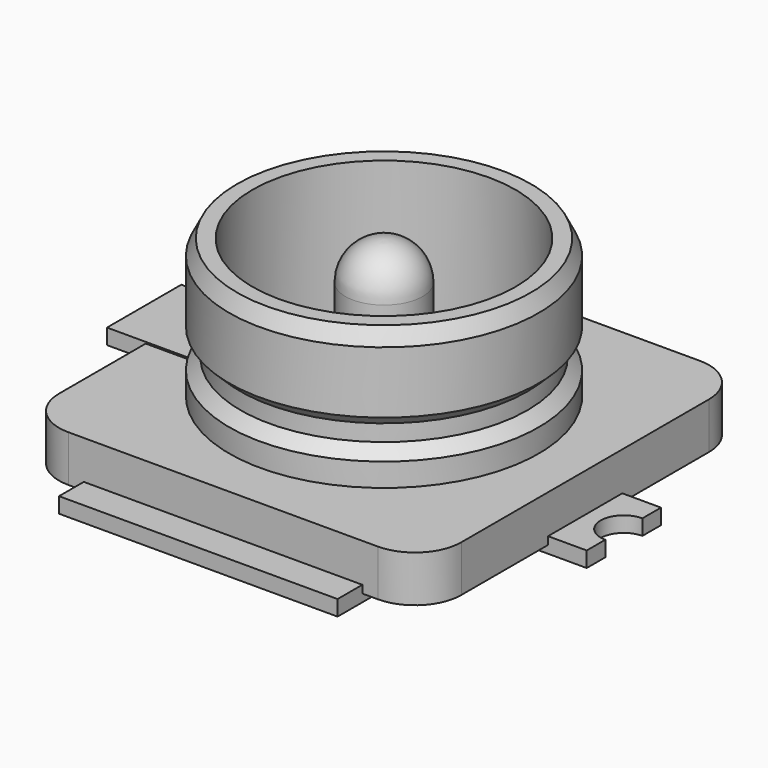
from build123d import *

# Parameters (mm, degrees)
BOX001_W     = 0.66
BOX001_H     = 0.6
BOX001_DEPTH = 0.1
PAD001_DEPTH = 0.1
BOX_W        = 1.8
BOX_H        = 0.45
BOX_DEPTH    = 0.1
ARRAY_COUNT  = 2
PAD_DEPTH    = 0.3


with BuildPart() as revolution001:
    # Sketch002 → Revolution001 (revolve)
    with BuildSketch(Plane.XZ):
        with BuildLine():
            Line((-0.25, 0.35), (0, 0.35))
            Line((0, 0.35), (0, 1.25))
            ThreePointArc((0, 1.25), (-0.176777, 1.176777), (-0.25, 1))
            Line((-0.25, 1), (-0.25, 0.35))
        make_face()
    revolve(axis=Axis((0, 0, 0), (0, 0, 1)))


with BuildPart() as revolution:
    # Sketch001 → Revolution (revolve)
    with BuildSketch(Plane.XZ):
        Polygon((-1, 0.35), (-1, 0.5), (-0.927252, 0.573186), (-0.927252, 0.679793), (-1, 0.75), (-1, 1.15), (-0.95, 1.25), (-0.85, 1.25), (-0.85, 0.35), align=None)
    revolve(axis=Axis((0, 0, 0), (0, 0, 1)))


with BuildPart() as ground_pin2:
    # Box001 → Box001 (new body)
    with BuildSketch(Plane(origin=(-1.55, -0.3, 0.26), x_dir=(1, 0, 0), z_dir=(0, 0, 1))):
        with Locations((0.33, 0.3)):
            Rectangle(BOX001_W, BOX001_H)
    extrude(amount=BOX001_DEPTH)


with BuildPart() as signal_pin:
    # Sketch003 → Pad001 (new body)
    with BuildSketch(Plane.XY):
        with BuildLine():
            Line((1.55, 0.3), (0.519615, 0.3))
            ThreePointArc((0.519615, 0.3), (-0.6, 0), (0.519615, -0.3))
            Line((0.519615, -0.3), (1.55, -0.3))
            Line((1.55, -0.3), (1.55, -0.15))
            ThreePointArc((1.55, 0.15), (1.4, 0), (1.55, -0.15))
            Line((1.55, 0.15), (1.55, 0.3))
        make_face()
    extrude(amount=PAD001_DEPTH)


with BuildPart() as ground_pins:
    # Box → Box (new body)
    with BuildSketch(Plane(origin=(-0.9, 1.05, 0), x_dir=(1, 0, 0), z_dir=(0, 0, 1))):
        with Locations((0.9, 0.225)):
            Rectangle(BOX_W, BOX_H)
    extrude(amount=BOX_DEPTH)

    # Array: ground_pins ×2 about axis
    array_axis = Axis((0, 0, 0), (0, 0, 1))


with BuildPart() as ground_pins_1:
    add(ground_pins.part)
    for i in range(1, ARRAY_COUNT):
        add(ground_pins.part.rotate(array_axis, i * 360 / ARRAY_COUNT))


with BuildPart() as fusion:
    # Sketch → Pad (new body)
    with BuildSketch(Plane.XY.offset(0.05)):
        with BuildLine():
            Line((-1, -1.3), (1, -1.3))
            ThreePointArc((1, -1.3), (1.212132, -1.212132), (1.3, -1))
            Line((1.3, -1), (1.3, 1))
            ThreePointArc((1.3, 1), (1.212132, 1.212132), (1, 1.3))
            Line((1, 1.3), (-1, 1.3))
            ThreePointArc((-1, 1.3), (-1.212132, 1.212132), (-1.3, 1))
            Line((-1.3, 1), (-1.3, -1))
            ThreePointArc((-1.3, -1), (-1.212132, -1.212132), (-1, -1.3))
        make_face()
    extrude(amount=PAD_DEPTH)

    # Fusion: union Revolution001, Revolution, ground_pin2, signal_pin, ground_pins
    add(revolution001.part)
    add(revolution.part)
    add(ground_pin2.part)
    add(signal_pin.part)
    add(ground_pins_1.part)


solid = fusion.part
